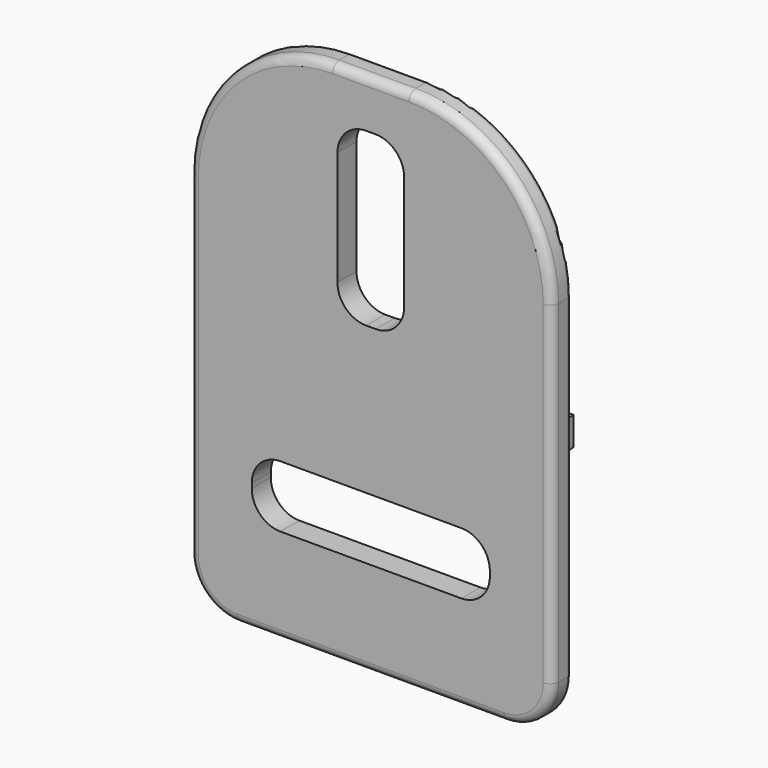
from build123d import *

# Parameters (mm, degrees)
F0_W     = 38
F0_H     = 55
F0_W_2   = 25
F0_H_2   = 6.5
F0_W_3   = 7
F0_H_3   = 18
F1_DEPTH = 2.5
F2_R     = 15
F3_R     = 5
F4_R     = 3
F5_W     = 33
F5_H     = 3
F6_DEPTH = 3.5
F7_R     = 0.4
F8_R     = 0.9


with BuildPart() as f1:
    # F0 (on Front) → F1 (new body)
    with BuildSketch(Plane.XZ):
        with Locations((0, 27.5)):
            Rectangle(F0_W, F0_H)
        with Locations((0, 13.25)):
            Rectangle(F0_W_2, F0_H_2, mode=Mode.SUBTRACT)
        with Locations((0, 40.968925)):
            Rectangle(F0_W_3, F0_H_3, mode=Mode.SUBTRACT)
    extrude(amount=F1_DEPTH)

    # F2
    f2_edges = [f1.edges().sort_by_distance(p)[0] for p in [
        (-19, -1.25, 55),
        (19, -1.25, 55),
    ]]
    fillet(f2_edges, radius=F2_R)

    # F3
    f3_edges = [f1.edges().sort_by_distance(p)[0] for p in [
        (-19, -1.25, 0),
        (19, -1.25, 0),
    ]]
    fillet(f3_edges, radius=F3_R)

    # F4
    f4_edges = [f1.edges().sort_by_distance(p)[0] for p in [
        (-12.5, -1.25, 10),
        (12.5, -1.25, 10),
        (12.5, -1.25, 16.5),
        (-12.5, -1.25, 16.5),
        (-3.5, -1.25, 49.968925),
        (-3.5, -1.25, 31.968925),
        (3.5, -1.25, 31.968925),
        (3.5, -1.25, 49.968925),
    ]]
    fillet(f4_edges, radius=F4_R)

    # F5 (on face) → F6 (join)
    with BuildSketch(Plane(origin=(0, 0, 0), x_dir=(-1, 0, 0), z_dir=(0, 1, 0))):
        with Locations((0, 25.3)):
            Rectangle(F5_W, F5_H)
    extrude(amount=F6_DEPTH)

    # F7
    f7_edges = [f1.edges().sort_by_distance(p)[0] for p in [
        (19, 0, 22.5),
    ]]
    fillet(f7_edges, radius=F7_R)

    # F8
    f8_edges = [f1.edges().sort_by_distance(p)[0] for p in [
        (19, -2.5, 22.5),
    ]]
    fillet(f8_edges, radius=F8_R)


solid = f1.part
